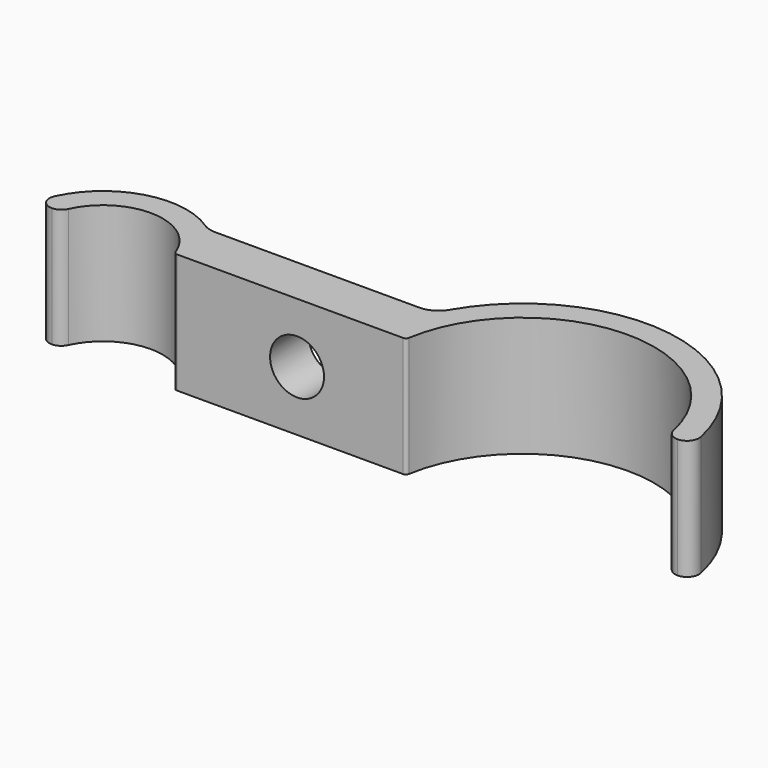
from build123d import *

# Parameters (mm, degrees)
F1_DEPTH = 10
F2_R     = 2.25
F3_DEPTH = 25


with BuildPart() as f1:
    # F0 (on Top) → F1 (new body)
    with BuildSketch(Plane.XY):
        with BuildLine():
            ThreePointArc((-4.545297, 2.083333), (0.204825, 4.995803), (4.700586, 1.704257))
            ThreePointArc((4.700586, 1.704257), (4.814012, 1.556152), (4.991909, 1.5))
            Line((4.991909, 1.5), (23.835874, 1.5))
            ThreePointArc((23.835874, 1.5), (24.036696, 1.57388), (24.14176, 1.760291))
            ThreePointArc((24.14176, 1.760291), (34.729685, 10.996678), (45.758637, 2.291667))
            ThreePointArc((45.758637, 2.291667), (46.107542, 1.722718), (46.736695, 1.5))
            ThreePointArc((46.736695, 1.5), (47.513976, 1.870847), (47.714752, 2.708333))
            ThreePointArc((47.714752, 2.708333), (37.03088, 12.840386), (23.74167, 6.5))
            ThreePointArc((23.74167, 6.5), (23.009619, 5.767949), (22.009619, 5.5))
            Line((22.009619, 5.5), (4.974937, 5.5))
            ThreePointArc((4.974937, 5.5), (4.397587, 5.585146), (3.869396, 5.833333))
            ThreePointArc((3.869396, 5.833333), (-1.918794, 6.731882), (-6.363415, 2.916667))
            ThreePointArc((-6.363415, 2.916667), (-6.295981, 1.959938), (-5.454356, 1.5))
            ThreePointArc((-5.454356, 1.5), (-4.914294, 1.658375), (-4.545297, 2.083333))
        make_face()
    extrude(amount=F1_DEPTH)

    # F2 (on face) → F3 (cut)
    with BuildSketch(Plane.XZ.offset(-1.5)):
        with Locations((15, 5)):
            Circle(F2_R)
    extrude(amount=-F3_DEPTH, mode=Mode.SUBTRACT)


solid = f1.part
